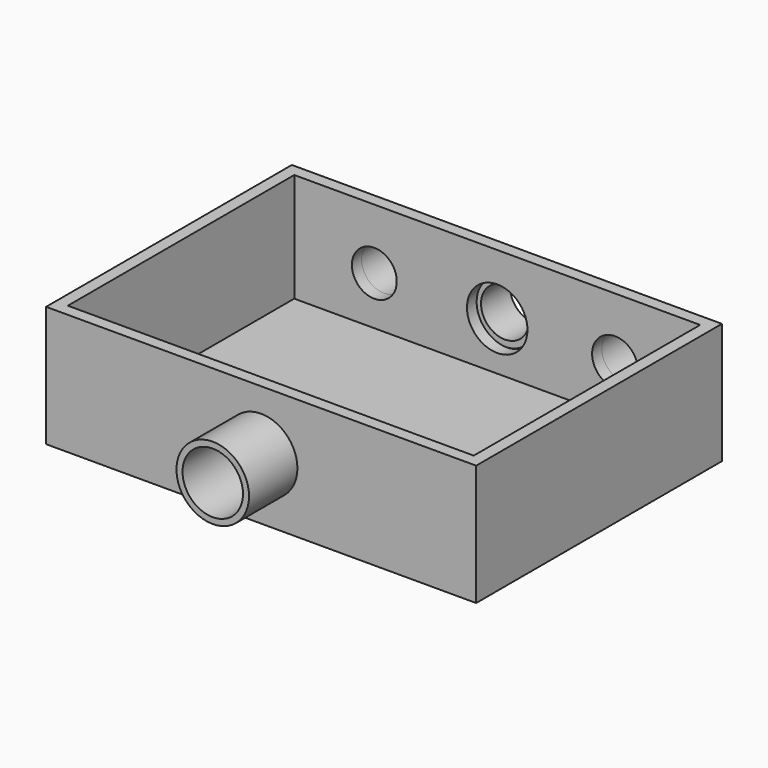
from build123d import *

# Parameters (mm, degrees)
F0_W     = 35.56
F0_H     = 25.4
F1_DEPTH = 10
F3_T     = -1
F2_R     = 2.5
F2_R_2   = 1.8571721373
F2_R_3   = 1.9771948061
F2_R_4   = 1.8995875302
F4_DEPTH = 3
F5_DEPTH = 1
F6_R     = 3
F6_R_2   = 2.5
F7_DEPTH = 5
F8_DEPTH = 25.4


with BuildPart() as f1:
    # F0 (on Top) → F1 (new body)
    with BuildSketch(Plane.XY):
        with Locations((-17.78, 16.9808987513)):
            Rectangle(F0_W, F0_H)
    extrude(amount=F1_DEPTH)

    # F3
    f3_openings = [f1.faces().sort_by_distance(p)[0] for p in [
        (-17.78, 16.980899, 10),
    ]]
    offset(amount=F3_T, openings=f3_openings)

    # F2 (on face) → F4 (join)
    with BuildSketch(Plane(origin=(0, 29.6808987513, 0), x_dir=(-1, 0, 0), z_dir=(0, 1, 0))):
        with Locations((27.94, 5)):
            Circle(F2_R)
        with Locations((27.94, 5)):
            Circle(F2_R_2, mode=Mode.SUBTRACT)
        with Locations((17.94, 4.9962)):
            Circle(F2_R)
        with Locations((17.94, 4.9962)):
            Circle(F2_R_3, mode=Mode.SUBTRACT)
        with Locations((8.034, 4.9962)):
            Circle(F2_R)
        with Locations((8.034, 4.9962)):
            Circle(F2_R_4, mode=Mode.SUBTRACT)
    extrude(amount=F4_DEPTH)

    # F5 (cut, through all): faces of the model
    f5_faces = [f1.faces().sort_by_distance(p)[0] for p in [
        (-27.94, 29.6808987513, 5),
        (-17.94, 29.6808987513, 4.9962),
        (-8.034, 29.6808987513, 4.9962),
    ]]
    extrude(f5_faces, amount=-F5_DEPTH, mode=Mode.SUBTRACT)

    # F6 (on face) → F7 (join)
    with BuildSketch(Plane.XZ.offset(-4.2808987513)):
        with Locations((-17.78, 5)):
            Circle(F6_R)
        with Locations((-17.78, 5)):
            Circle(F6_R_2, mode=Mode.SUBTRACT)
    extrude(amount=F7_DEPTH)

    # F8 (cut): a face of the model
    f8_faces = [f1.faces().sort_by_distance(p)[0] for p in [
        (-17.78, 4.2808987513, 5),
    ]]
    extrude(f8_faces, amount=-F8_DEPTH, mode=Mode.SUBTRACT)


solid = f1.part
